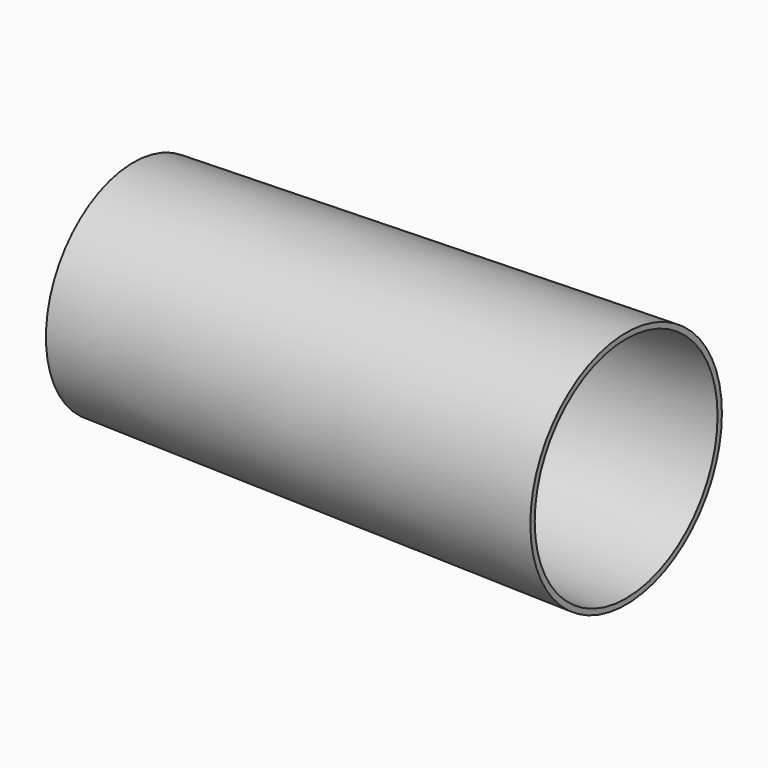
from build123d import *

# Parameters (mm, degrees)
F2_T = -2.54


with BuildPart() as f1:
    # F0 (on Top) → F1 (revolve)
    with BuildSketch(Plane.XY):
        Polygon((-138.346372, 40.578078), (-138.346372, -10.221922), (90.253628, -10.221922), (90.253628, 45.340578), align=None)
    revolve(axis=Axis((-24.046372, -10.221922, 0), (1, 0, 0)))

    # F2
    f2_openings = [f1.faces().sort_by_distance(p)[0] for p in [
        (90.253628, -10.221922, 0),
        (-138.346372, -10.221922, 0),
    ]]
    offset(amount=F2_T, openings=f2_openings)


solid = f1.part
